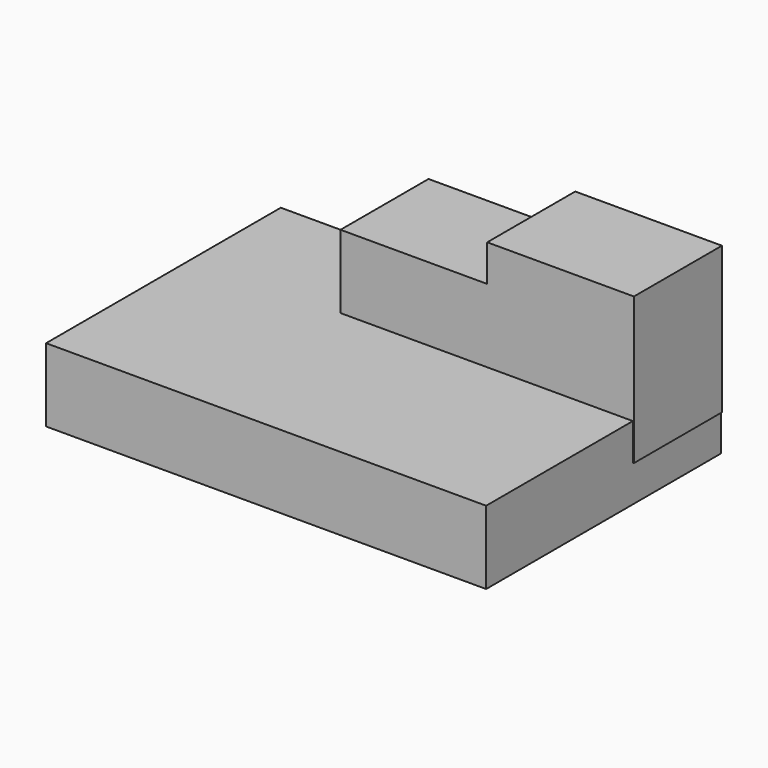
from build123d import *

# Parameters (mm, degrees)
F0_W     = 152.4
F0_H     = 101.6
F1_DEPTH = 12.7
F2_W     = 50.8
F2_H     = 38.1
F3_DEPTH = 50.8
F4_DEPTH = 38.1


with BuildPart() as f1:
    # F0 (on Top) → F1 (new body, symmetric)
    with BuildSketch(Plane.XY):
        with Locations((14.2702582896, -2.3004743776)):
            Rectangle(F0_W, F0_H)
    extrude(amount=F1_DEPTH, both=True)

    # F2 (on Top) → F3 (join)
    with BuildSketch(Plane.XY):
        with Locations((65.439629665, 29.4495256224)):
            Rectangle(F2_W, F2_H)
    extrude(amount=F3_DEPTH)

    # F2 (on Top) → F4 (join)
    with BuildSketch(Plane.XY):
        with Locations((14.639629665, 29.4495256224)):
            Rectangle(F2_W, F2_H)
    extrude(amount=F4_DEPTH)


solid = f1.part
